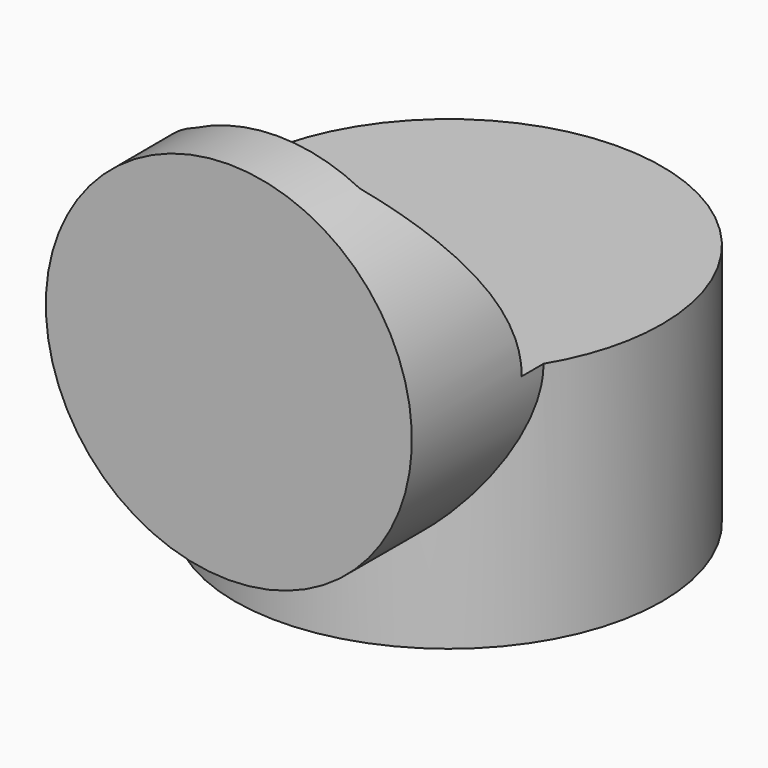
from build123d import *

# Parameters (mm, degrees)
SKETCH_R             = 30
PAD_DEPTH            = 30
SKETCH001_R          = 35
PAD001_DEPTH         = 40
SKETCH002_R          = 37.5
POCKET_DEPTH         = 35
PAD002_DEPTH         = 10
BODY_PITCH_ANGLE     = -90
BODY_PLACEMENT_ANGLE = -90


with BuildPart() as part:
    # Sketch → Pad (new body)
    with BuildSketch(Plane.XY):
        Circle(SKETCH_R)
    extrude(amount=PAD_DEPTH)

    # Sketch001 → Pad001 (join)
    with BuildSketch(Plane.YZ):
        with Locations((0, 35)):
            Circle(SKETCH001_R)
    extrude(amount=-PAD001_DEPTH)

    # Sketch002 → Pocket (cut)
    with BuildSketch(Plane.YZ):
        with Locations((0, 35)):
            Circle(SKETCH002_R)
    extrude(amount=POCKET_DEPTH, mode=Mode.SUBTRACT)

    # Sketch → Pad002 (join)
    with BuildSketch(Plane.XY):
        Circle(SKETCH_R)
    extrude(amount=-PAD002_DEPTH)


with BuildPart() as part_1:
    # Body pitch: moved
    add(part.part.rotate(Axis((0, 0, 0), (0, 1, 0)), BODY_PITCH_ANGLE))


with BuildPart() as part_2:
    # Body placement: moved
    add(part_1.part.moved(Location((0, -35, 0))).rotate(Axis((0, -35, 0), (0, 0, 1)), BODY_PLACEMENT_ANGLE))


solid = part_2.part
